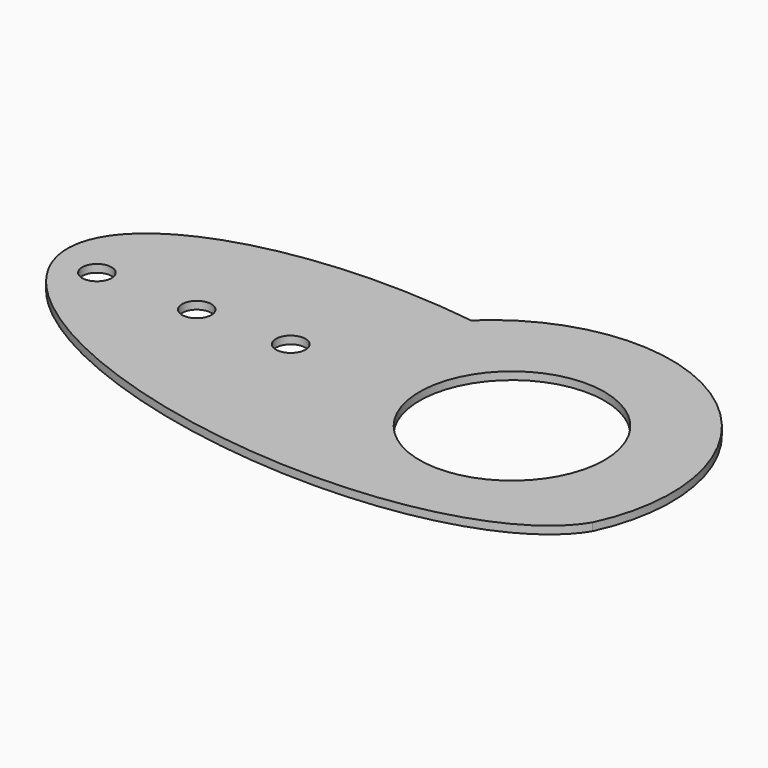
from build123d import *

# Parameters (mm, degrees)
F1_DEPTH = 2
F2_R     = 3.7902535162
F2_R_2   = 23.8108157565
F3_DEPTH = 2.0010001


with BuildPart() as f1:
    # F0 (on Top) → F1 (new body)
    with BuildSketch(Plane.XY):
        with BuildLine():
            ThreePointArc((40.7661758363, -11.0115529969), (25.9379430058, 46.4509473189), (-33.268943429, 42.406193912))
            add(Edge.make_bspline(
                [(-33.268943429, 42.406193912), (-200.9472513655, 65.343171751), (-100.2846852345, -7.2867846015), (0.3778808964, -79.916740954), (40.7661758363, -11.0115529969)],
                knots=[1.5952561053, 1.5952561053, 1.5952561053, 3.8505204156, 3.8505204156, 6.1057847259, 6.1057847259, 6.1057847259], degree=2, weights=[1, 0.4288001176, 1, 0.4288001176, 1]))
        make_face()
    extrude(amount=F1_DEPTH)

    # F2 (on face) → F3 (cut, through all)
    with BuildSketch(Plane.XY.offset(2)):
        with Locations((-105.0031632185, 11.646068655)):
            Circle(F2_R)
        with Locations((-79.2910680175, 11.646068655)):
            Circle(F2_R)
        with Locations((-55.0914444029, 11.646068655)):
            Circle(F2_R)
        with Locations((1.8889798428, 11.646068655)):
            Circle(F2_R_2)
    extrude(amount=-F3_DEPTH, mode=Mode.SUBTRACT)


solid = f1.part
